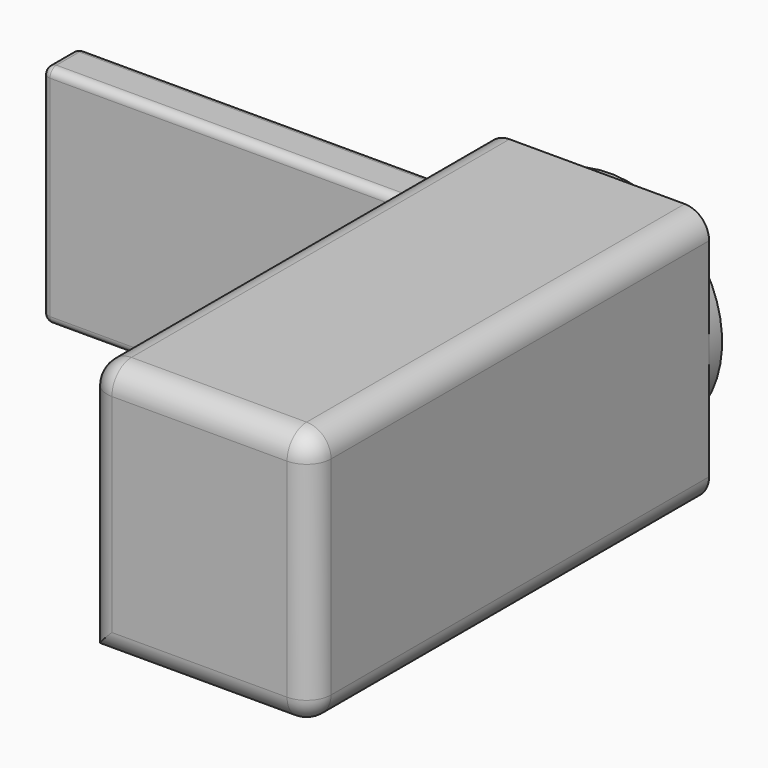
from build123d import *

# Parameters (mm, degrees)
SKETCH068_W     = 55
SKETCH068_H     = 122
PAD033_DEPTH    = 63
SKETCH069_R     = 27.5
PAD034_DEPTH    = 4
SKETCH070_R     = 3.25
POCKET026_DEPTH = 7
SKETCH071_W     = 11
SKETCH071_H     = 55.5
PAD035_DEPTH    = 92
FILLET_R        = 6
FILLET001_R     = 2


with BuildPart() as part:
    # Sketch068 (on Face5 of ShapeBinder026) → Pad033 (new body)
    with BuildSketch(Plane.XY.offset(89.8)):
        with Locations((-2.5, -9)):
            Rectangle(SKETCH068_W, SKETCH068_H)
    extrude(amount=PAD033_DEPTH)

    # Sketch069 (on Face1 of Pad033) → Pad034 (join)
    with BuildSketch(Plane(origin=(0, 52, -4), x_dir=(-1, 0, 0), z_dir=(0, 1, 0))):
        with Locations((2.5, 127.3)):
            Circle(SKETCH069_R)
    extrude(amount=PAD034_DEPTH)

    # Sketch070 (on Face5 of Pad033) → Pocket026 (cut)
    with BuildSketch(Plane(origin=(0, 0, 89.8), x_dir=(1, 0, 0), z_dir=(0, 0, -1))):
        with Locations((0, -29)):
            Circle(SKETCH070_R)
    extrude(amount=-POCKET026_DEPTH, mode=Mode.SUBTRACT)

    # Sketch071 (on Face4 of Pad033) → Pad035 (join)
    with BuildSketch(Plane(origin=(-30, 0, -4), x_dir=(0, -1, 0), z_dir=(-1, 0, 0))):
        with Locations((-36.5, 121.55)):
            Rectangle(SKETCH071_W, SKETCH071_H)
    extrude(amount=PAD035_DEPTH)

    # Fillet
    fillet_edges = [part.edges().sort_by_distance(p)[0] for p in [
        (-30, -9, 152.8),
        (-30, -70, 121.3),
        (-2.5, -70, 89.8),
        (25, -9, 152.8),
        (-2.5, -70, 152.8),
        (25, -70, 121.3),
        (25, -9, 89.8),
    ]]
    fillet(fillet_edges, radius=FILLET_R)

    # Fillet001
    fillet001_edges = [part.edges().sort_by_distance(p)[0] for p in [
        (-76, 31, 145.3),
        (-122, 31, 117.55),
        (-76, 42, 145.3),
        (-122, 36.5, 145.3),
        (-122, 42, 117.55),
        (-122, 36.5, 89.8),
        (-76, 42, 89.8),
        (-76, 31, 89.8),
    ]]
    fillet(fillet001_edges, radius=FILLET001_R)


solid = part.part
